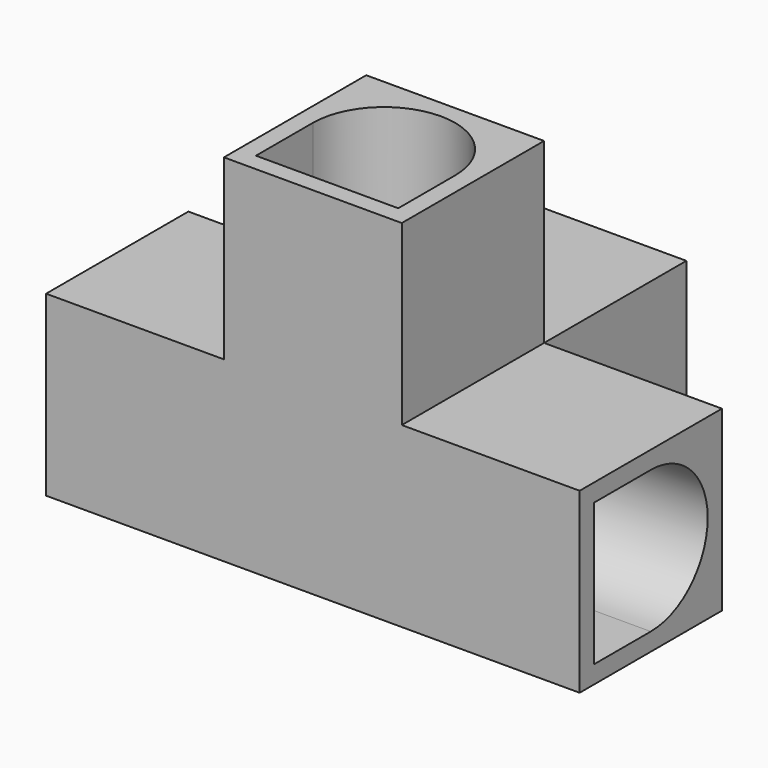
from build123d import *

# Parameters (mm, degrees)
F1_DEPTH  = 12.7
F2_W      = 12.7
F2_H      = 12.7
F3_DEPTH  = 12.7
F4_W      = 5.08
F4_H      = 10.16
F6_DEPTH  = 12.7
F7_W      = 10.16
F7_H      = 5.08
F8_DEPTH  = 12.7
F9_W      = 5.08
F9_H      = 10.16
F10_DEPTH = 12.7
F11_W     = 10.16
F11_H     = 10.16
F12_DEPTH = 12.7


with BuildPart() as f1:
    # F0 (on Top) → F1 (new body)
    with BuildSketch(Plane.XY):
        Polygon((0, 12.7), (0, 0), (38.1, 0), (38.1, 12.7), (25.4, 12.7), (25.4, 25.4), (12.7, 25.4), (12.7, 12.7), align=None)
    extrude(amount=F1_DEPTH)

    # F2 (on face) → F3 (join)
    with BuildSketch(Plane.XY.offset(12.7)):
        with Locations((19.05, 6.35)):
            Rectangle(F2_W, F2_H)
    extrude(amount=F3_DEPTH)

    # F4 (on face) → F6 (cut)
    with BuildSketch(Plane.YZ.offset(38.1)):
        with Locations((3.81, 6.35)):
            Rectangle(F4_W, F4_H)
        with BuildLine():
            Line((6.35, 11.43), (6.35, 1.27))
            ThreePointArc((6.35, 1.27), (11.43, 6.35), (6.35, 11.43))
        make_face()
    extrude(amount=-F6_DEPTH, mode=Mode.SUBTRACT)

    # F7 (on face) → F8 (cut)
    with BuildSketch(Plane.XY.offset(25.4)):
        with Locations((19.05, 3.81)):
            Rectangle(F7_W, F7_H)
        with BuildLine():
            Line((13.97, 6.35), (24.13, 6.35))
            ThreePointArc((24.13, 6.35), (19.05, 11.43), (13.97, 6.35))
        make_face()
    extrude(amount=-F8_DEPTH, mode=Mode.SUBTRACT)

    # F9 (on face) → F10 (cut)
    with BuildSketch(Plane(origin=(0, 0, 0), x_dir=(0, -1, 0), z_dir=(-1, 0, 0))):
        with Locations((-3.81, 6.35)):
            Rectangle(F9_W, F9_H)
        with BuildLine():
            Line((-6.35, 1.27), (-6.35, 11.43))
            ThreePointArc((-6.35, 11.43), (-11.43, 6.35), (-6.35, 1.27))
        make_face()
    extrude(amount=-F10_DEPTH, mode=Mode.SUBTRACT)

    # F11 (on face) → F12 (cut)
    with BuildSketch(Plane(origin=(0, 25.4, 0), x_dir=(-1, 0, 0), z_dir=(0, 1, 0))):
        with Locations((-19.05, 6.35)):
            Rectangle(F11_W, F11_H)
    extrude(amount=-F12_DEPTH, mode=Mode.SUBTRACT)


solid = f1.part
